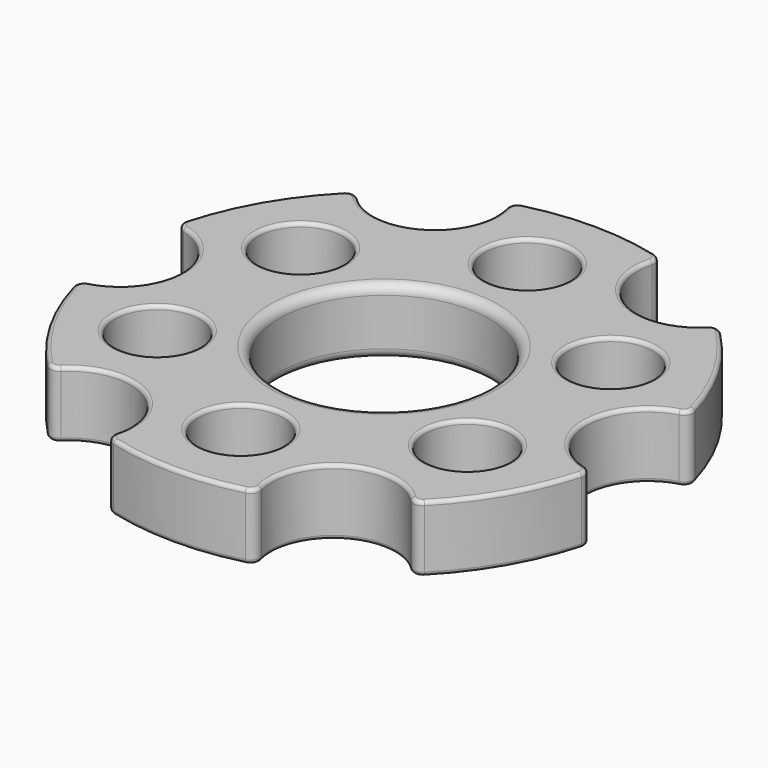
from build123d import *

# Parameters (mm, degrees)
F0_R     = 4.5
F0_R_2   = 11.125
F1_DEPTH = 7
F2_R     = 1
F3_R     = 0.4


with BuildPart() as f1:
    # F0 (on Top) → F1 (new body)
    with BuildSketch(Plane.XY):
        with BuildLine():
            ThreePointArc((-18.567235, 19.623739), (-19.27771, 19.912174), (-19.983586, 19.612657))
            ThreePointArc((-19.983586, 19.612657), (-24.248711, 14), (-26.976852, 7.499964))
            ThreePointArc((-26.976852, 7.499964), (-26.883304, 6.7389), (-26.278274, 6.267827))
            ThreePointArc((-26.278274, 6.267827), (-21.5, 0), (-26.278274, -6.267827))
            ThreePointArc((-26.278274, -6.267827), (-26.883304, -6.7389), (-26.976852, -7.499964))
            ThreePointArc((-26.976852, -7.499964), (-24.248711, -14), (-19.983586, -19.612657))
            ThreePointArc((-19.983586, -19.612657), (-19.27771, -19.912174), (-18.567235, -19.623739))
            ThreePointArc((-18.567235, -19.623739), (-10.75, -18.619546), (-7.711039, -25.891566))
            ThreePointArc((-7.711039, -25.891566), (-7.605594, -26.651074), (-6.993266, -27.112621))
            ThreePointArc((-6.993266, -27.112621), (0, -28), (6.993266, -27.112621))
            ThreePointArc((6.993266, -27.112621), (7.605594, -26.651074), (7.711039, -25.891566))
            ThreePointArc((7.711039, -25.891566), (10.75, -18.619546), (18.567235, -19.623739))
            ThreePointArc((18.567235, -19.623739), (19.27771, -19.912174), (19.983586, -19.612657))
            ThreePointArc((19.983586, -19.612657), (24.248711, -14), (26.976852, -7.499964))
            ThreePointArc((26.976852, -7.499964), (26.883304, -6.7389), (26.278274, -6.267827))
            ThreePointArc((26.278274, -6.267827), (21.5, 0), (26.278274, 6.267827))
            ThreePointArc((26.278274, 6.267827), (26.883304, 6.7389), (26.976852, 7.499964))
            ThreePointArc((26.976852, 7.499964), (24.248711, 14), (19.983586, 19.612657))
            ThreePointArc((19.983586, 19.612657), (19.27771, 19.912174), (18.567235, 19.623739))
            ThreePointArc((18.567235, 19.623739), (10.75, 18.619546), (7.711039, 25.891566))
            ThreePointArc((7.711039, 25.891566), (7.605594, 26.651074), (6.993266, 27.112621))
            ThreePointArc((6.993266, 27.112621), (0, 28), (-6.993266, 27.112621))
            ThreePointArc((-6.993266, 27.112621), (-7.605594, 26.651074), (-7.711039, 25.891566))
            ThreePointArc((-7.711039, 25.891566), (-10.75, 18.619546), (-18.567235, 19.623739))
        make_face()
        with Locations((-16.454483, -9.5)):
            Circle(F0_R, mode=Mode.SUBTRACT)
        with Locations((0, -19)):
            Circle(F0_R, mode=Mode.SUBTRACT)
        with Locations((16.454483, -9.5)):
            Circle(F0_R, mode=Mode.SUBTRACT)
        with Locations((-16.454483, 9.5)):
            Circle(F0_R, mode=Mode.SUBTRACT)
        Circle(F0_R_2, mode=Mode.SUBTRACT)
        with Locations((16.454483, 9.5)):
            Circle(F0_R, mode=Mode.SUBTRACT)
        with Locations((0, 19)):
            Circle(F0_R, mode=Mode.SUBTRACT)
    extrude(amount=F1_DEPTH)

    # F2
    f2_edges = [f1.edges().sort_by_distance(p)[0] for p in [
        (11.125, 0, 3.5),
        (-11.125, 0, 0),
        (-11.125, 0, 7),
    ]]
    fillet(f2_edges, radius=F2_R)

    # F3
    f3_edges = [f1.edges().sort_by_distance(p)[0] for p in [
        (-12.125, 0, 7),
        (-24.248711, -14, 7),
        (-19.27771, -19.912174, 7),
        (-10.75, -18.619546, 7),
        (-7.605594, -26.651074, 7),
        (0, -28, 7),
        (7.605594, -26.651074, 7),
        (10.75, -18.619546, 7),
        (19.27771, -19.912174, 7),
        (24.248711, -14, 7),
        (26.883304, -6.7389, 7),
        (21.5, 0, 7),
        (26.883304, 6.7389, 7),
        (24.248711, 14, 7),
        (19.27771, 19.912174, 7),
        (10.75, 18.619546, 7),
        (7.605594, 26.651074, 7),
        (0, 28, 7),
        (-7.605594, 26.651074, 7),
        (-10.75, 18.619546, 7),
        (-19.27771, 19.912174, 7),
        (-24.248711, 14, 7),
        (-26.883304, 6.7389, 7),
        (-21.5, 0, 7),
        (-26.883304, -6.7389, 7),
        (-20.954483, -9.5, 7),
        (-4.5, -19, 7),
        (11.954483, -9.5, 7),
        (-20.954483, 9.5, 7),
        (11.954483, 9.5, 7),
        (-4.5, 19, 7),
        (-12.125, 0, 0),
        (-24.248711, -14, 0),
        (-19.27771, -19.912174, 0),
        (-10.75, -18.619546, 0),
        (-7.605594, -26.651074, 0),
        (0, -28, 0),
        (7.605594, -26.651074, 0),
        (10.75, -18.619546, 0),
        (19.27771, -19.912174, 0),
        (24.248711, -14, 0),
        (26.883304, -6.7389, 0),
        (21.5, 0, 0),
        (26.883304, 6.7389, 0),
        (24.248711, 14, 0),
        (19.27771, 19.912174, 0),
        (10.75, 18.619546, 0),
        (7.605594, 26.651074, 0),
        (0, 28, 0),
        (-7.605594, 26.651074, 0),
        (-10.75, 18.619546, 0),
        (-19.27771, 19.912174, 0),
        (-24.248711, 14, 0),
        (-26.883304, 6.7389, 0),
        (-21.5, 0, 0),
        (-26.883304, -6.7389, 0),
        (-20.954483, -9.5, 0),
        (-4.5, -19, 0),
        (11.954483, -9.5, 0),
        (-20.954483, 9.5, 0),
        (11.954483, 9.5, 0),
        (-4.5, 19, 0),
    ]]
    fillet(f3_edges, radius=F3_R)


solid = f1.part
